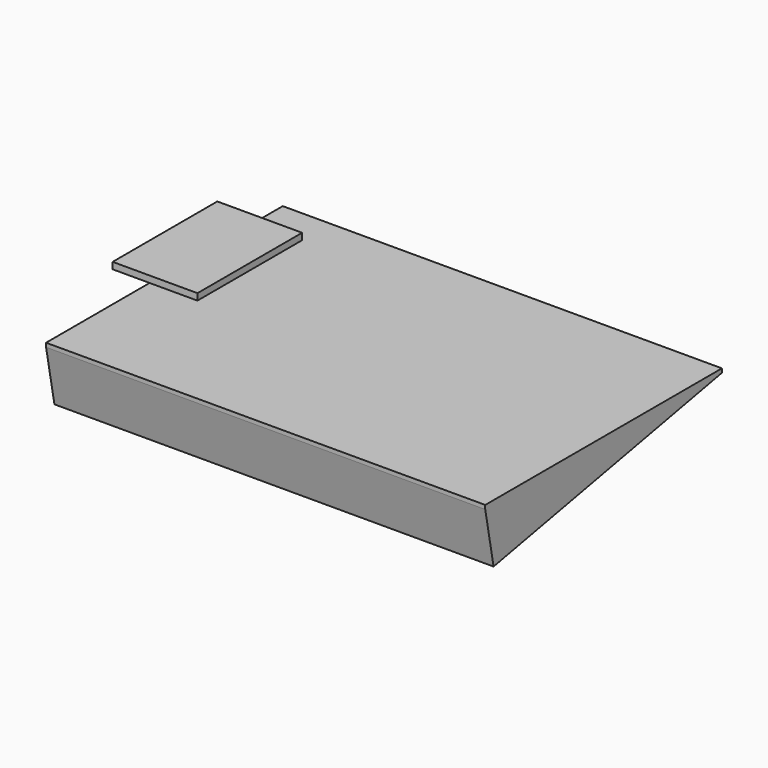
from build123d import *

# Parameters (mm, degrees)
F0_W     = 995
F0_H     = 50
F1_DEPTH = 645
F2_W     = 2250
F2_H     = 30
F3_DEPTH = 3340


with BuildPart() as f1:
    # F0 (on Right) → F1 (new body)
    with BuildSketch(Plane.YZ):
        with Locations((1.924496, 34.84062)):
            Rectangle(F0_W, F0_H)
        with Locations((1.924496, 34.84062)):
            Rectangle(F0_W, F0_H)
    extrude(amount=F1_DEPTH)


with BuildPart() as f3:
    # F2 (on Right) → F3 (new body)
    with BuildSketch(Plane.YZ):
        with Locations((-3.344981, -239.392277)):
            Rectangle(F2_W, F2_H)
        Polygon((1121.655019, -254.392277), (-1128.344981, -254.392277), (-1049.056092, -669.257644), align=None)
    extrude(amount=F3_DEPTH)


solid = Compound([f1.part, f3.part])
